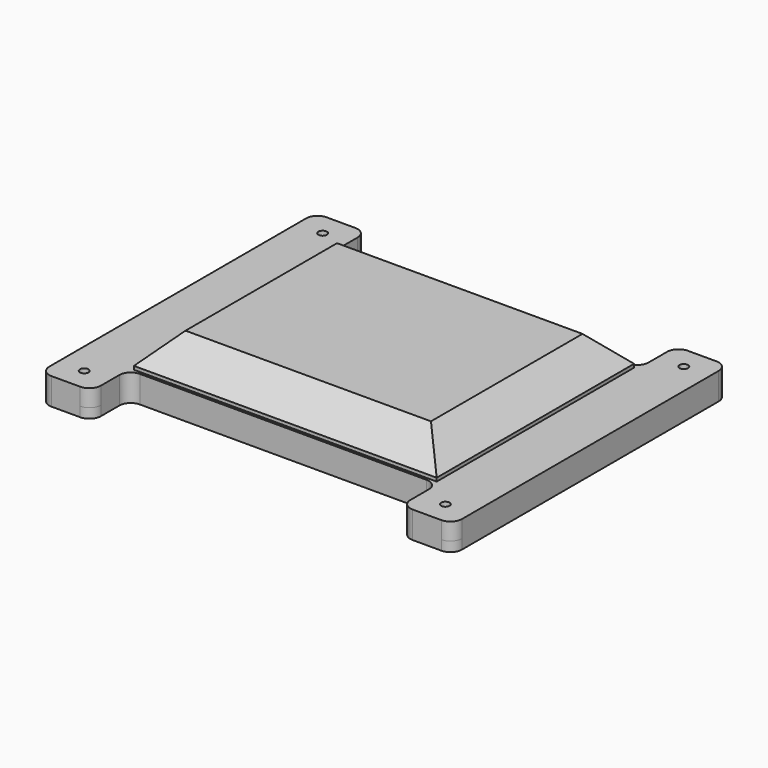
from build123d import *

# Parameters (mm, degrees)
F0_R     = 9.525
F0_W     = 685.8
F0_H     = 558.2681298256
F1_DEPTH = 38.1
F2_R     = 25.4
F3_W     = 670.9210244843
F3_H     = 546.7255115509
F4_DEPTH = 71.12
F5_SIZE  = 63.5
F6_DEPTH = 21.5011


with BuildPart() as f1:
    # F0 (on Top) → F1 (new body)
    with BuildSketch(Plane.XY):
        Polygon((457.2, -381), (457.2, 381), (342.9, 381), (342.9, 279.1340649128), (342.9, -279.1340649128), (342.9, -381), align=None)
        with Locations((400.05, -330.2)):
            Circle(F0_R, mode=Mode.SUBTRACT)
        with Locations((400.05, 330.2)):
            Circle(F0_R, mode=Mode.SUBTRACT)
        Rectangle(F0_W, F0_H)
        Polygon((-342.9, -279.1340649128), (-342.9, 279.1340649128), (-342.9, 381), (-457.2, 381), (-457.2, -381), (-342.9, -381), align=None)
        with Locations((-400.05, -330.2)):
            Circle(F0_R, mode=Mode.SUBTRACT)
        with Locations((-400.05, 330.2)):
            Circle(F0_R, mode=Mode.SUBTRACT)
    extrude(amount=F1_DEPTH)

    # F2
    f2_edges = [f1.edges().sort_by_distance(p)[0] for p in [
        (-457.2, -381, 19.05),
        (-342.9, -381, 19.05),
        (342.9, -381, 19.05),
        (457.2, -381, 19.05),
        (342.9, 381, 19.05),
        (-457.2, 381, 19.05),
        (-342.9, -279.134065, 19.05),
        (342.9, -279.134065, 19.05),
        (457.2, 381, 19.05),
        (-342.9, 279.134065, 19.05),
        (-342.9, 381, 19.05),
        (342.9, 279.134065, 19.05),
    ]]
    fillet(f2_edges, radius=F2_R)

    # F3 (on face) → F4 (join)
    with BuildSketch(Plane.XY.offset(38.1)):
        Rectangle(F3_W, F3_H)
    extrude(amount=F4_DEPTH)

    # F5
    f5_edges = [f1.edges().sort_by_distance(p)[0] for p in [
        (0, 273.362756, 109.22),
        (335.460512, 0, 109.22),
        (-335.460512, 0, 109.22),
        (0, -273.362756, 109.22),
    ]]
    chamfer(f5_edges, length=F5_SIZE)

    # F6 (add): a face of the model
    f6_faces = [f1.faces().sort_by_distance(p)[0] for p in [
        (0, 0, 0),
    ]]
    extrude(f6_faces, amount=F6_DEPTH)


solid = f1.part
